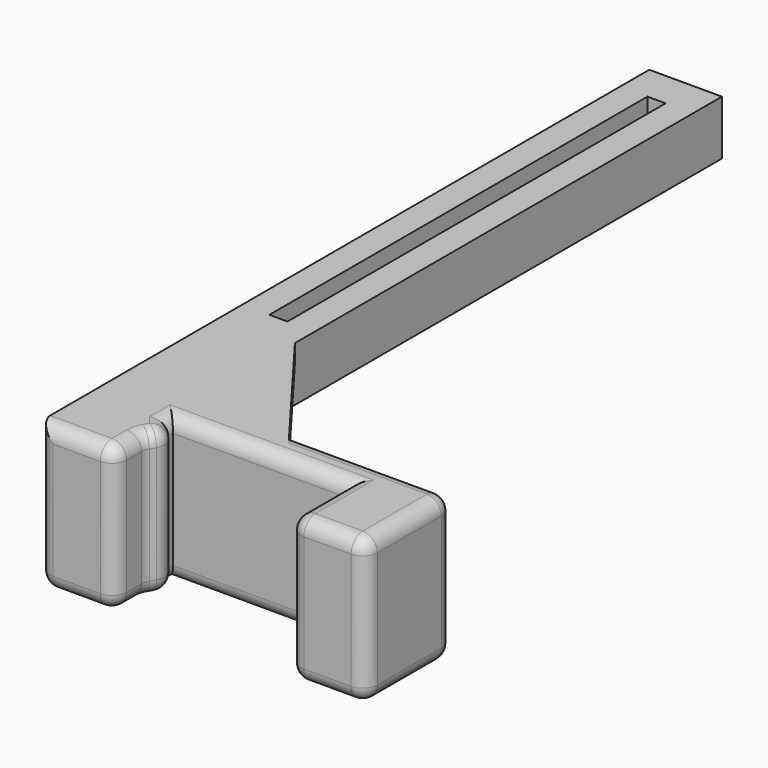
from build123d import *

# Parameters (mm, degrees)
F0_W      = 114.3
F0_H      = 38.1
F2_DEPTH  = 25.4
F1_W      = 60.96
F1_H      = 38.1
F3_DEPTH  = 38.1
F5_DEPTH  = 25.4
F6_W      = 25.4
F6_H      = 19.05
F7_DEPTH  = 228.6
F8_W      = 12.7
F8_H      = 177.8
F9_DEPTH  = 7.62
F10_W     = 6.35
F10_H     = 165.1
F11_DEPTH = 11.431
F13_DEPTH = 6.35
F14_R     = 5.08


with BuildPart() as f2:
    # F0 (on Top) → F2 (new body, symmetric)
    with BuildSketch(Plane.XY):
        Rectangle(F0_W, F0_H)
    extrude(amount=F2_DEPTH, both=True)

    # F1 (on face) → F3 (cut, symmetric)
    with BuildSketch(Plane.XY):
        with Locations((0, -12.7)):
            Rectangle(F1_W, F1_H)
    extrude(amount=F3_DEPTH, both=True, mode=Mode.SUBTRACT)

    # F4 (on Top) → F5 (join, symmetric)
    with BuildSketch(Plane.XY):
        Polygon((-26.9186757505, 0), (-30.5502526462, 4.3267654255), (-30.6185223162, -6.3184089959), align=None)
    extrude(amount=F5_DEPTH, both=True)

    # F6 (on face) → F7 (join)
    with BuildSketch(Plane(origin=(0, 19.05, 0), x_dir=(-1, 0, 0), z_dir=(0, 1, 0))):
        with Locations((44.45, 15.875)):
            Rectangle(F6_W, F6_H)
    extrude(amount=F7_DEPTH)

    # F8 (on face) → F9 (cut)
    with BuildSketch(Plane(origin=(0, 0, 6.35), x_dir=(1, 0, 0), z_dir=(0, 0, -1))):
        with Locations((-44.45, -152.4)):
            Rectangle(F8_W, F8_H)
    extrude(amount=-F9_DEPTH, mode=Mode.SUBTRACT)

    # F10 (on face) → F11 (cut, through all)
    with BuildSketch(Plane(origin=(0, 0, 13.97), x_dir=(1, 0, 0), z_dir=(0, 0, -1))):
        with Locations((-44.45, -152.4)):
            Rectangle(F10_W, F10_H)
    extrude(amount=-F11_DEPTH, mode=Mode.SUBTRACT)

    # F12 (on face) → F13 (join)
    with BuildSketch(Plane.XY.offset(25.4)):
        Polygon((0, 19.05), (-31.75, 61.1579380929), (-31.75, 19.05), align=None)
    extrude(amount=-F13_DEPTH)

    # F14
    f14_edges = [f2.edges().sort_by_distance(p)[0] for p in [
        (28.575, 19.05, 25.4),
        (57.15, 19.05, 0),
        (0, 19.05, -25.4),
        (-57.15, 19.05, -9.525),
        (-57.15, 0, -25.4),
        (-30.48, -12.565924, -25.4),
        (-57.15, -19.05, 0),
        (57.15, 0, 25.4),
        (57.15, 0, -25.4),
        (30.48, -6.35, 25.4),
        (57.15, -19.05, 0),
        (43.815, -19.05, 25.4),
        (30.48, -19.05, 0),
        (43.815, -19.05, -25.4),
        (0, 6.35, 25.4),
        (-30.48, 5.296532, 25.4),
        (-30.48, -12.565924, 25.4),
        (-30.48, -19.05, 0),
        (-43.815, -19.05, -25.4),
        (-43.815, -19.05, 25.4),
        (30.48, -6.35, -25.4),
        (-26.918676, 0, 0),
        (-28.699338, 2.121532, 25.4),
        (-30.48, -6.081848, 0),
        (-28.699338, -3.040924, 25.4),
        (0, 6.35, -25.4),
        (-28.699338, -3.040924, -25.4),
        (-28.699338, 2.121532, -25.4),
        (-30.48, 5.296532, -25.4),
    ]]
    fillet(f14_edges, radius=F14_R)


solid = f2.part
